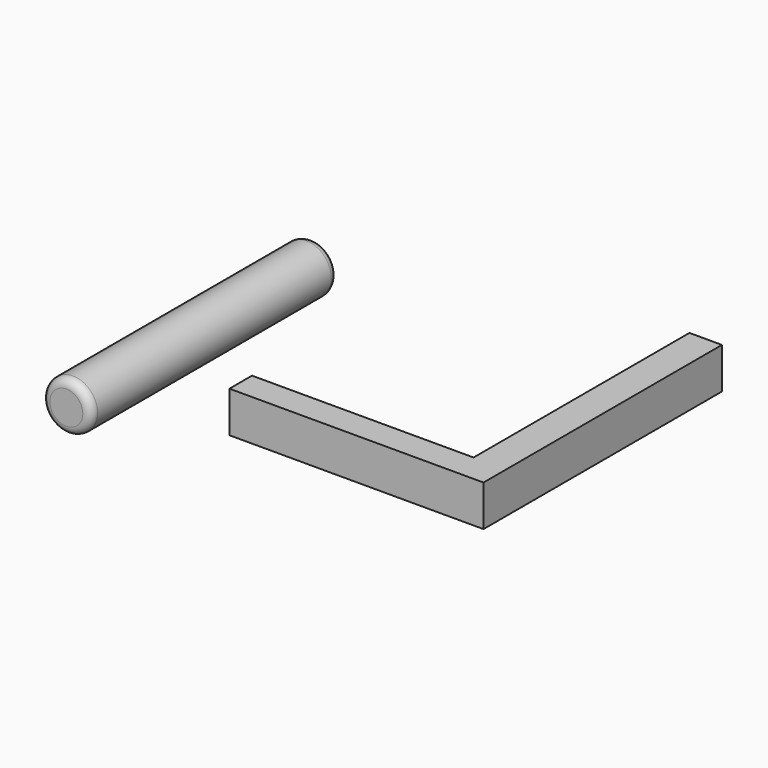
from build123d import *

# Parameters (mm, degrees)
F0_R     = 15
F1_DEPTH = 94
F2_R     = 5
F3_W     = 135.017038
F3_H     = 17.192084
F4_DEPTH = 25


with BuildPart() as f1:
    # F0 (on Front) → F1 (new body, symmetric)
    with BuildSketch(Plane.XZ):
        Circle(F0_R)
    extrude(amount=F1_DEPTH, both=True)

    # F2
    f2_edges = [f1.edges().sort_by_distance(p)[0] for p in [
        (-15, -94, 0),
        (-15, 94, 0),
    ]]
    fillet(f2_edges, radius=F2_R)


with BuildPart() as f4:
    # F3 (on Top) → F4 (new body)
    with BuildSketch(Plane.XY):
        Polygon((233.19228, 113.840185), (213.389531, 113.840185), (213.389531, -50.575171), (213.389531, -67.767255), (233.19228, -67.767255), align=None)
        with Locations((145.881012, -59.171213)):
            Rectangle(F3_W, F3_H)
    extrude(amount=F4_DEPTH)


solid = Compound([f1.part, f4.part])
